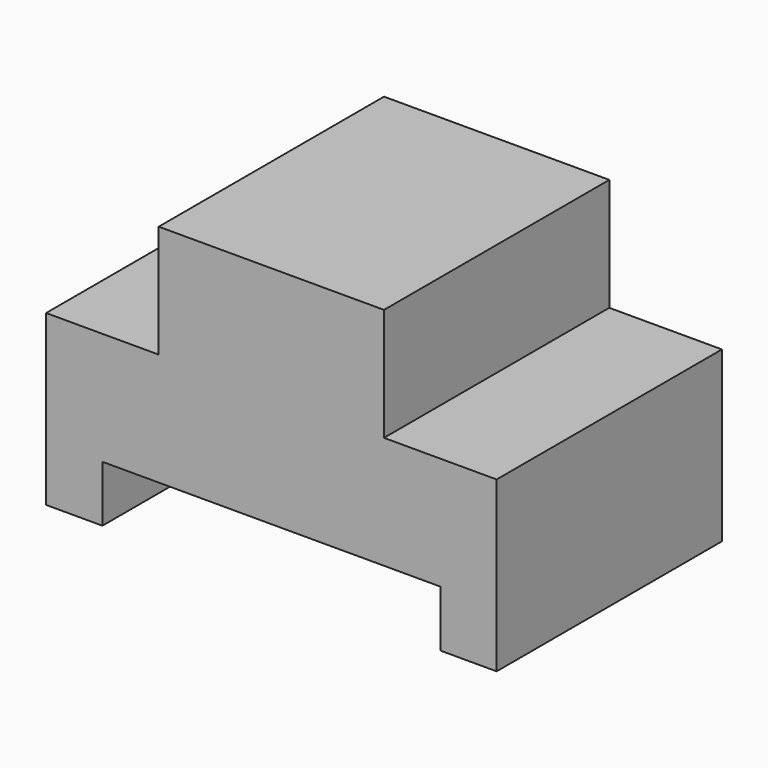
from build123d import *

# Parameters (mm, degrees)
F0_W     = 50.8
F0_H     = 31.75
F1_DEPTH = 31.75
F2_W     = 12.7
F2_H     = 12.7
F2_W_2   = 38.1
F2_H_2   = 6.35
F3_DEPTH = 56.642


with BuildPart() as f1:
    # F0 (on Top) → F1 (new body)
    with BuildSketch(Plane.XY):
        with Locations((25.4, -15.875)):
            Rectangle(F0_W, F0_H)
    extrude(amount=F1_DEPTH)

    # F2 (on Front) → F3 (cut)
    with BuildSketch(Plane.XZ):
        with Locations((6.35, 25.4)):
            Rectangle(F2_W, F2_H)
        with Locations((44.45, 25.4)):
            Rectangle(F2_W, F2_H)
        with Locations((25.4, 3.175)):
            Rectangle(F2_W_2, F2_H_2)
    extrude(amount=F3_DEPTH, mode=Mode.SUBTRACT)


solid = f1.part
